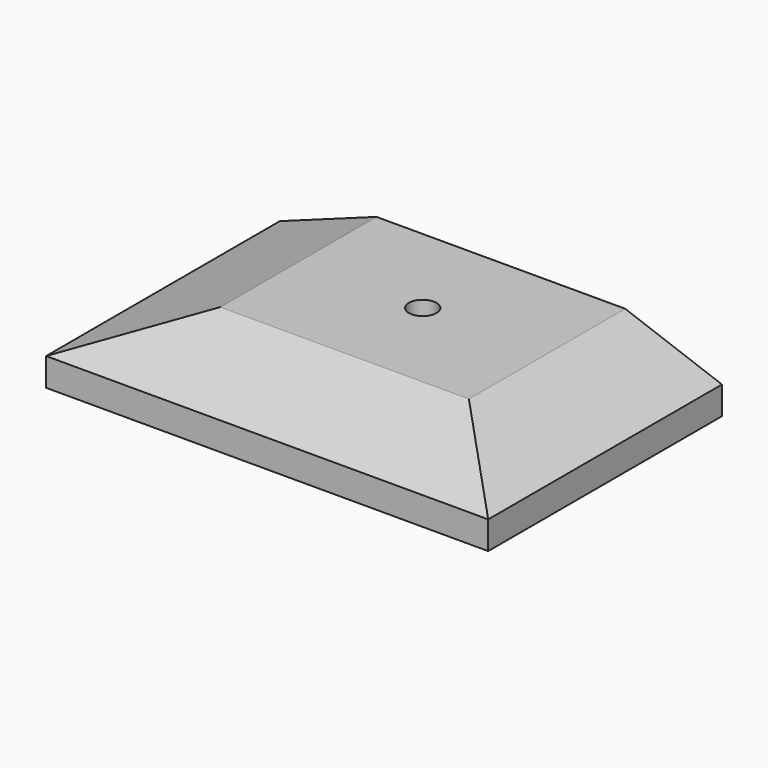
from build123d import *

# Parameters (mm, degrees)
F1_W     = 32
F1_H     = 21.1428571429
F2_DEPTH = 4.5714285714
F3_SIZE2 = 2.5477916399
F3_SIZE  = 7
F4_R     = 1
F5_DEPTH = 3


with BuildPart() as f2:
    # F1 (on Top) → F2 (new body)
    with BuildSketch(Plane.XY):
        with Locations((16, -10.5714285714)):
            Rectangle(F1_W, F1_H)
    extrude(amount=F2_DEPTH)

    # F3
    f3_edges = [f2.edges().sort_by_distance(p)[0] for p in [
        (0, -10.571429, 4.571429),
        (16, -21.142857, 4.571429),
        (32, -10.571429, 4.571429),
    ]]
    f3_side = f2.faces().sort_by_distance((16, -10.571429, 4.571429))[0]
    chamfer(f3_edges, length=F3_SIZE, length2=F3_SIZE2, reference=f3_side)

    # F4 (on face) → F5 (cut)
    with BuildSketch(Plane.XY.offset(4.5714285714)):
        with Locations((16, -7.0714285714)):
            Circle(F4_R)
    extrude(amount=-F5_DEPTH, mode=Mode.SUBTRACT)


solid = f2.part
